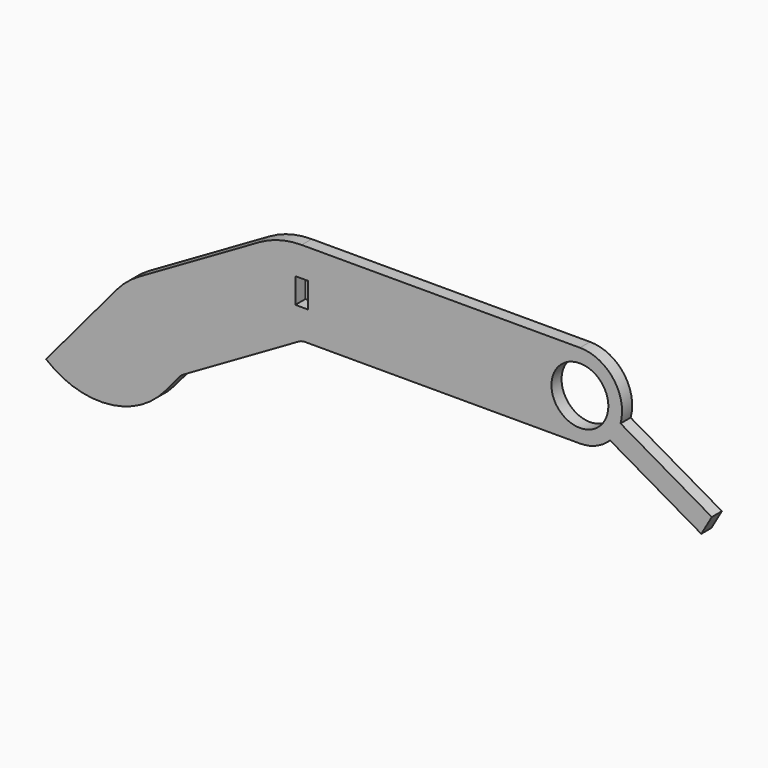
from build123d import *

# Parameters (mm, degrees)
F0_W     = 3
F0_H     = 6
F0_R     = 6.75
F1_DEPTH = 3
F2_R     = 3


with BuildPart() as f1:
    # F0 (on Front) → F1 (new body)
    with BuildSketch(Plane.XZ):
        with BuildLine():
            Line((-33, -10), (33, -10))
            ThreePointArc((33, -10), (36.868919, -9.221251), (40.135255, -7.006293))
            Line((40.135255, -7.006293), (61.78589, -19.506293))
            Line((61.78589, -19.506293), (64.28589, -15.176166))
            Line((64.28589, -15.176166), (42.635255, -2.676166))
            ThreePointArc((42.635255, -2.676166), (40.961208, 6.051378), (33, 10))
            Line((33, 10), (-33, 10))
            ThreePointArc((-33, 10), (-38.176381, 9.318517), (-43, 7.320508))
            Line((-43, 7.320508), (-71.578838, -9.179492))
            ThreePointArc((-71.578838, -9.179492), (-74.434591, -11.179111), (-76.899727, -13.644248))
            Line((-76.899727, -13.644248), (-93.612205, -33.561403))
            ThreePointArc((-93.612205, -33.561403), (-79.013338, -38.164408), (-65.435564, -31.096267))
            Line((-65.435564, -31.096267), (-61.578838, -26.5))
            Line((-61.578838, -26.5), (-33, -10))
        make_face()
        with Locations((-33, 0)):
            Rectangle(F0_W, F0_H, mode=Mode.SUBTRACT)
        with Locations((33, 0)):
            Circle(F0_R, mode=Mode.SUBTRACT)
    extrude(amount=F1_DEPTH)

    # F2
    f2_edges = [f1.edges().sort_by_distance(p)[0] for p in [
        (-33, -1.5, -10),
        (-61.578838, -1.5, -26.5),
    ]]
    fillet(f2_edges, radius=F2_R)


solid = f1.part
